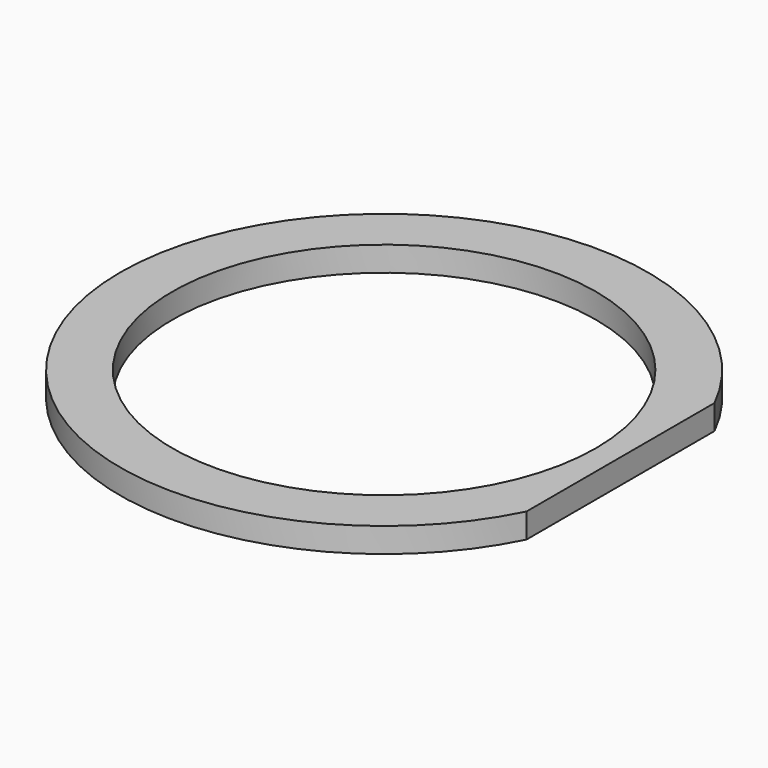
from build123d import *

# Parameters (mm, degrees)
F0_R      = 53.381002
F1_DEPTH  = 5
F2_R      = 42.843554
F3_DEPTH  = 5
F4_W      = 10.931604
F4_H      = 106.757529
F5_DEPTH  = 25.4
F5_FACE_W = 10.931604
F5_FACE_H = 106.75753
F6_DEPTH  = 25.4


with BuildPart() as f1:
    # F0 (on Top) → F1 (new body)
    with BuildSketch(Plane.XY):
        Circle(F0_R)
    extrude(amount=F1_DEPTH)

    # F2 (on face) → F3 (cut)
    with BuildSketch(Plane.XY.offset(5)):
        Circle(F2_R)
    extrude(amount=-F3_DEPTH, mode=Mode.SUBTRACT)

    # F4 (on Top) → F5 (join)
    with BuildSketch(Plane.XY):
        with Locations((53.262476, 0.232588)):
            Rectangle(F4_W, F4_H)
    extrude(amount=F5_DEPTH)

    # F5_face (on face) → F6 (cut)
    with BuildSketch(Plane(origin=(53.262476, 0.232588, 25.4), x_dir=(1, 0, 0), z_dir=(0, 0, 1))):
        Rectangle(F5_FACE_W, F5_FACE_H)
    extrude(amount=-F6_DEPTH, mode=Mode.SUBTRACT)


solid = f1.part
